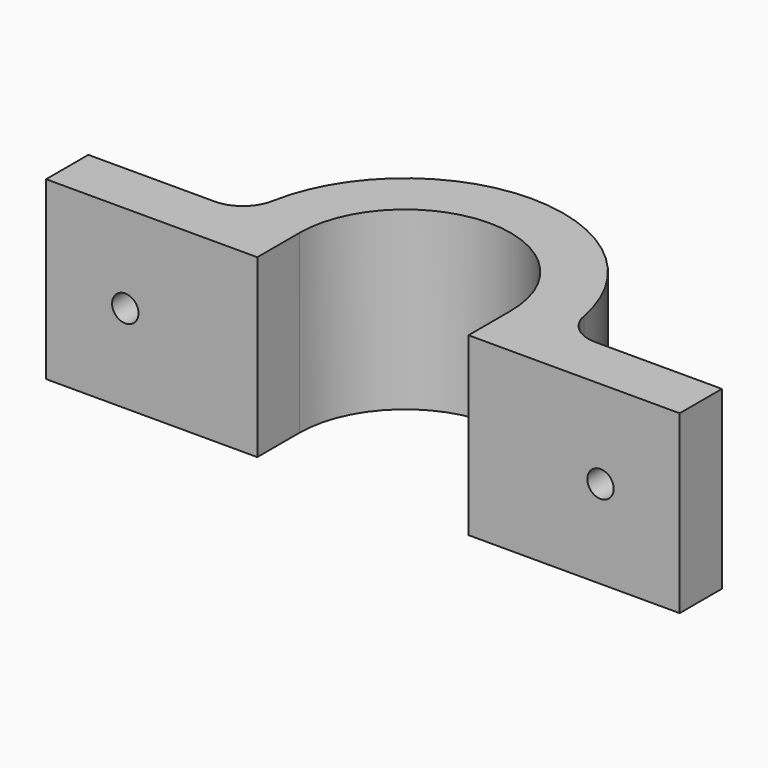
from build123d import *

# Parameters (mm, degrees)
F1_DEPTH = 10
F3_D     = 1.5
F4_R     = 2


with BuildPart() as f1:
    # F0 (on Top) → F1 (new body)
    with BuildSketch(Plane.XY):
        with BuildLine():
            ThreePointArc((-6, 0), (0, 6), (6, 0))
            Line((6, 0), (6, -3))
            Line((6, -3), (18, -3))
            Line((18, -3), (18, 0))
            Line((18, 0), (9, 0))
            ThreePointArc((9, 0), (0, 9), (-9, 0))
            Line((-9, 0), (-18, 0))
            Line((-18, 0), (-18, -3))
            Line((-18, -3), (-6, -3))
            Line((-6, -3), (-6, 0))
        make_face()
    extrude(amount=F1_DEPTH)

    # F3 (through all)
    with Locations(Plane(origin=(0, 0, 0), x_dir=(-1, 0, 0), z_dir=(0, 1, 0))):
        with Locations((-13.5, 5), (13.5, 5)):
            Hole(F3_D / 2)

    # F4
    f4_edges = [f1.edges().sort_by_distance(p)[0] for p in [
        (9, 0, 5),
        (-9, 0, 5),
    ]]
    fillet(f4_edges, radius=F4_R)


solid = f1.part
